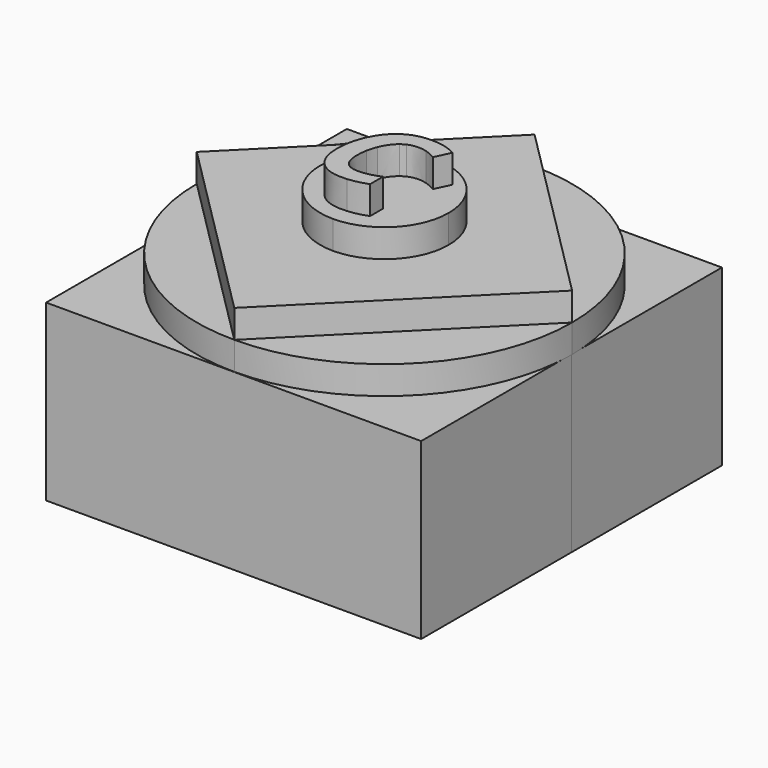
from build123d import *

# Parameters (mm, degrees)
F1_DEPTH = 6.35
F2_DEPTH = 12.7
F3_DEPTH = 19.05
F4_DEPTH = 25.4
F5_DEPTH = 19.05
F6_W     = 84.6370868385
F6_H     = 39.3302179873
F7_DEPTH = 42.418
F8_DEPTH = 42.418


with BuildPart() as f1:
    # F0 (on Top) → F1 (new body)
    with BuildSketch(Plane.XY):
        with BuildLine():
            Line((-42.3516215858, 0), (0, 42.3516215858))
            ThreePointArc((0, 42.3516215858), (-29.9471188176, 29.9471188176), (-42.3516215858, 0))
        make_face()
    extrude(amount=F1_DEPTH)


with BuildPart() as f1b:
    # F0 (on Top) → F1, piece 2 (new body)
    with BuildSketch(Plane.XY):
        with BuildLine():
            Line((0, 42.3516215858), (42.3516215858, 0))
            ThreePointArc((42.3516215858, 0), (29.9471188176, 29.9471188176), (0, 42.3516215858))
        make_face()
    extrude(amount=F1_DEPTH)


with BuildPart() as f1c:
    # F0 (on Top) → F1, piece 3 (new body)
    with BuildSketch(Plane.XY):
        with BuildLine():
            ThreePointArc((0, -42.3516215858), (29.9471188176, -29.9471188176), (42.3516215858, 0))
            Line((42.3516215858, 0), (0, -42.3516215858))
        make_face()
    extrude(amount=F1_DEPTH)


with BuildPart() as f1d:
    # F0 (on Top) → F1, piece 4 (new body)
    with BuildSketch(Plane.XY):
        with BuildLine():
            ThreePointArc((-42.3516215858, 0), (-29.9471188176, -29.9471188176), (0, -42.3516215858))
            Line((0, -42.3516215858), (-42.3516215858, 0))
        make_face()
    extrude(amount=F1_DEPTH)


with BuildPart() as f2:
    # F0 (on Top) → F2 (new body)
    with BuildSketch(Plane.XY):
        with BuildLine():
            Line((0, 14.4900253138), (0, 42.3516215858))
            Line((0, 42.3516215858), (-42.3516215858, 0))
            Line((-42.3516215858, 0), (-14.4900253138, 0))
            ThreePointArc((-14.4900253138, 0), (-10.2459951589, 10.2459951589), (0, 14.4900253138))
        make_face()
        with BuildLine():
            Line((14.4900253138, 0), (42.3516215858, 0))
            Line((42.3516215858, 0), (0, 42.3516215858))
            Line((0, 42.3516215858), (0, 14.4900253138))
            ThreePointArc((0, 14.4900253138), (10.2459951589, 10.2459951589), (14.4900253138, 0))
        make_face()
        with BuildLine():
            Line((0, -42.3516215858), (42.3516215858, 0))
            Line((42.3516215858, 0), (14.4900253138, 0))
            ThreePointArc((14.4900253138, 0), (10.2459951589, -10.2459951589), (0, -14.4900253138))
            Line((0, -14.4900253138), (0, -42.3516215858))
        make_face()
        with BuildLine():
            Line((-42.3516215858, 0), (0, -42.3516215858))
            Line((0, -42.3516215858), (0, -14.4900253138))
            ThreePointArc((0, -14.4900253138), (-10.2459951589, -10.2459951589), (-14.4900253138, 0))
            Line((-14.4900253138, 0), (-42.3516215858, 0))
        make_face()
    extrude(amount=F2_DEPTH)

    # F0 (on Top) → F3 (join)
    with BuildSketch(Plane.XY):
        with BuildLine():
            Line((0, 10.0847837123), (0, 14.4900253138))
            ThreePointArc((0, 14.4900253138), (-10.2459951589, 10.2459951589), (-14.4900253138, 0))
            Line((-14.4900253138, 0), (-8.4076113491, 0))
            add(Edge.make_bspline(
                [(-8.4076113491, 0), (-8.0674152675, 2.1382154446), (-7.1649176971, 4.0515102938)],
                knots=[0.3769495817, 0.3769495817, 0.3769495817, 1, 1, 1], degree=2))
            add(Edge.make_bspline(
                [(-7.1649176971, 4.0515102938), (-5.7164031887, 7.1223610516), (-3.29181275, 8.7179554947)],
                knots=[0, 0, 0, 1, 1, 1], degree=2))
            add(Edge.make_bspline(
                [(-3.29181275, 8.7179554947), (-1.785286578, 9.7093826447), (0, 10.0847837123)],
                knots=[0, 0, 0, 0.6213528471, 0.6213528471, 0.6213528471], degree=2))
        make_face()
        with BuildLine():
            Line((0, 0), (14.4900253138, 0))
            ThreePointArc((14.4900253138, 0), (10.2459951589, 10.2459951589), (0, 14.4900253138))
            Line((0, 14.4900253138), (0, 10.0847837123))
            add(Edge.make_bspline(
                [(0, 10.0847837123), (1.0879384928, 10.3135499378), (2.2793968976, 10.3135499378)],
                knots=[0.6213528471, 0.6213528471, 0.6213528471, 1, 1, 1], degree=2))
            add(Edge.make_bspline(
                [(2.2793968976, 10.3135499378), (4.0220712755, 10.3135499378), (5.3725324941, 9.9993337136)],
                knots=[0, 0, 0, 1, 1, 1], degree=2))
            add(Edge.make_bspline(
                [(5.3725324941, 9.9993337136), (6.7229937127, 9.6851174895), (8.2695615109, 8.8516645262)],
                knots=[0, 0, 0, 1, 1, 1], degree=2))
            Line((8.2695615109, 8.8516645262), (6.6249404229, 5.3663157706))
            add(Edge.make_bspline(
                [(6.6249404229, 5.3663157706), (5.1496841081, 6.1908547985), (4.1892075649, 6.4538158939)],
                knots=[0, 0, 0, 1, 1, 1], degree=2))
            add(Edge.make_bspline(
                [(4.1892075649, 6.4538158939), (3.2287310216, 6.7167769892), (2.2793968976, 6.7167769892)],
                knots=[0, 0, 0, 1, 1, 1], degree=2))
            add(Edge.make_bspline(
                [(2.2793968976, 6.7167769892), (1.0589813809, 6.7167769892), (0, 6.2186936188)],
                knots=[0, 0, 0, 0.6646163427, 0.6646163427, 0.6646163427], degree=2))
            Line((0, 6.2186936188), (0, 0))
        make_face()
        with BuildLine():
            ThreePointArc((0, -14.4900253138), (10.2459951589, -10.2459951589), (14.4900253138, 0))
            Line((14.4900253138, 0), (0, 0))
            Line((0, 0), (0, -7.0234033811))
            add(Edge.make_bspline(
                [(0, -7.0234033811), (1.9334305116, -6.95443899), (4.4231983701, -5.9543822335)],
                knots=[0.0689604772, 0.0689604772, 0.0689604772, 1, 1, 1], degree=2))
            Line((4.4231983701, -5.9543822335), (4.4231983701, -9.5778969884))
            add(Edge.make_bspline(
                [(4.4231983701, -9.5778969884), (2.2228663266, -10.4318100681), (0, -10.606877871)],
                knots=[0, 0, 0, 0.7949817059, 0.7949817059, 0.7949817059], degree=2))
            Line((0, -10.606877871), (0, -14.4900253138))
        make_face()
        with BuildLine():
            ThreePointArc((-14.4900253138, 0), (-10.2459951589, -10.2459951589), (0, -14.4900253138))
            Line((0, -14.4900253138), (0, -10.606877871))
            add(Edge.make_bspline(
                [(0, -10.606877871), (-0.5732562888, -10.6520262084), (-1.1480112776, -10.6520262084)],
                knots=[0.7949817059, 0.7949817059, 0.7949817059, 1, 1, 1], degree=2))
            add(Edge.make_bspline(
                [(-1.1480112776, -10.6520262084), (-4.6823866781, -10.6520262084), (-6.6479094418, -8.5683938002)],
                knots=[0, 0, 0, 1, 1, 1], degree=2))
            add(Edge.make_bspline(
                [(-6.6479094418, -8.5683938002), (-8.6134322055, -6.484761392), (-8.6134322055, -2.6695970252)],
                knots=[0, 0, 0, 1, 1, 1], degree=2))
            add(Edge.make_bspline(
                [(-8.6134322055, -2.6695970252), (-8.6134322055, -1.2936343413), (-8.4076113491, 0)],
                knots=[0, 0, 0, 0.3769495817, 0.3769495817, 0.3769495817], degree=2))
            Line((-8.4076113491, 0), (-14.4900253138, 0))
        make_face()
    extrude(amount=F3_DEPTH)

    # F0 (on Top) → F4 (join)
    with BuildSketch(Plane.XY):
        with BuildLine():
            add(Edge.make_bspline(
                [(0, 10.0847837123), (1.0879384928, 10.3135499378), (2.2793968976, 10.3135499378)],
                knots=[0.6213528471, 0.6213528471, 0.6213528471, 1, 1, 1], degree=2))
            Line((0, 10.0847837123), (0, 6.2186936188))
            add(Edge.make_bspline(
                [(2.2793968976, 6.7167769892), (1.0589813809, 6.7167769892), (0, 6.2186936188)],
                knots=[0, 0, 0, 0.6646163427, 0.6646163427, 0.6646163427], degree=2))
            add(Edge.make_bspline(
                [(4.1892075649, 6.4538158939), (3.2287310216, 6.7167769892), (2.2793968976, 6.7167769892)],
                knots=[0, 0, 0, 1, 1, 1], degree=2))
            add(Edge.make_bspline(
                [(6.6249404229, 5.3663157706), (5.1496841081, 6.1908547985), (4.1892075649, 6.4538158939)],
                knots=[0, 0, 0, 1, 1, 1], degree=2))
            Line((6.6249404229, 5.3663157706), (8.2695615109, 8.8516645262))
            add(Edge.make_bspline(
                [(5.3725324941, 9.9993337136), (6.7229937127, 9.6851174895), (8.2695615109, 8.8516645262)],
                knots=[0, 0, 0, 1, 1, 1], degree=2))
            add(Edge.make_bspline(
                [(2.2793968976, 10.3135499378), (4.0220712755, 10.3135499378), (5.3725324941, 9.9993337136)],
                knots=[0, 0, 0, 1, 1, 1], degree=2))
        make_face()
        with BuildLine():
            add(Edge.make_bspline(
                [(0, -10.606877871), (-0.5732562888, -10.6520262084), (-1.1480112776, -10.6520262084)],
                knots=[0.7949817059, 0.7949817059, 0.7949817059, 1, 1, 1], degree=2))
            Line((0, -10.606877871), (0, -7.0234033811))
            add(Edge.make_bspline(
                [(-0.2833595403, -7.0285114536), (-0.1432058333, -7.0285114536), (0, -7.0234033811)],
                knots=[0, 0, 0, 0.0689604772, 0.0689604772, 0.0689604772], degree=2))
            add(Edge.make_bspline(
                [(-3.3274684918, -5.9008986209), (-2.3736774001, -7.0285114536), (-0.2833595403, -7.0285114536)],
                knots=[0, 0, 0, 1, 1, 1], degree=2))
            add(Edge.make_bspline(
                [(-4.2812595835, -2.4467486393), (-4.2812595835, -4.7732857882), (-3.3274684918, -5.9008986209)],
                knots=[0, 0, 0, 1, 1, 1], degree=2))
            add(Edge.make_bspline(
                [(-4.0571695007, 0), (-4.2812595835, -1.1819176543), (-4.2812595835, -2.4467486393)],
                knots=[0.4986089511, 0.4986089511, 0.4986089511, 1, 1, 1], degree=2))
            Line((-4.0571695007, 0), (-8.4076113491, 0))
            add(Edge.make_bspline(
                [(-8.6134322055, -2.6695970252), (-8.6134322055, -1.2936343413), (-8.4076113491, 0)],
                knots=[0, 0, 0, 0.3769495817, 0.3769495817, 0.3769495817], degree=2))
            add(Edge.make_bspline(
                [(-6.6479094418, -8.5683938002), (-8.6134322055, -6.484761392), (-8.6134322055, -2.6695970252)],
                knots=[0, 0, 0, 1, 1, 1], degree=2))
            add(Edge.make_bspline(
                [(-1.1480112776, -10.6520262084), (-4.6823866781, -10.6520262084), (-6.6479094418, -8.5683938002)],
                knots=[0, 0, 0, 1, 1, 1], degree=2))
        make_face()
        with BuildLine():
            Line((0, 6.2186936188), (0, 10.0847837123))
            add(Edge.make_bspline(
                [(-3.29181275, 8.7179554947), (-1.785286578, 9.7093826447), (0, 10.0847837123)],
                knots=[0, 0, 0, 0.6213528471, 0.6213528471, 0.6213528471], degree=2))
            add(Edge.make_bspline(
                [(-7.1649176971, 4.0515102938), (-5.7164031887, 7.1223610516), (-3.29181275, 8.7179554947)],
                knots=[0, 0, 0, 1, 1, 1], degree=2))
            add(Edge.make_bspline(
                [(-8.4076113491, 0), (-8.0674152675, 2.1382154446), (-7.1649176971, 4.0515102938)],
                knots=[0.3769495817, 0.3769495817, 0.3769495817, 1, 1, 1], degree=2))
            Line((-8.4076113491, 0), (-4.0571695007, 0))
            add(Edge.make_bspline(
                [(-3.3898660398, 2.2687232065), (-3.8343228397, 1.1753594789), (-4.0571695007, 0)],
                knots=[0, 0, 0, 0.4986089511, 0.4986089511, 0.4986089511], degree=2))
            add(Edge.make_bspline(
                [(-1.0276731492, 5.5891641565), (-2.4984724962, 4.4615513238), (-3.3898660398, 2.2687232065)],
                knots=[0, 0, 0, 1, 1, 1], degree=2))
            add(Edge.make_bspline(
                [(0, 6.2186936188), (-0.5343910851, 5.9673470724), (-1.0276731492, 5.5891641565)],
                knots=[0.6646163427, 0.6646163427, 0.6646163427, 1, 1, 1], degree=2))
        make_face()
        with BuildLine():
            Line((0, -7.0234033811), (0, -10.606877871))
            add(Edge.make_bspline(
                [(4.4231983701, -9.5778969884), (2.2228663266, -10.4318100681), (0, -10.606877871)],
                knots=[0, 0, 0, 0.7949817059, 0.7949817059, 0.7949817059], degree=2))
            Line((4.4231983701, -9.5778969884), (4.4231983701, -5.9543822335))
            add(Edge.make_bspline(
                [(0, -7.0234033811), (1.9334305116, -6.95443899), (4.4231983701, -5.9543822335)],
                knots=[0.0689604772, 0.0689604772, 0.0689604772, 1, 1, 1], degree=2))
        make_face()
    extrude(amount=F4_DEPTH)

    # F0 (on Top) → F5 (join)
    with BuildSketch(Plane.XY):
        with BuildLine():
            Line((0, -7.0234033811), (0, 0))
            Line((0, 0), (-4.0571695007, 0))
            add(Edge.make_bspline(
                [(-4.0571695007, 0), (-4.2812595835, -1.1819176543), (-4.2812595835, -2.4467486393)],
                knots=[0.4986089511, 0.4986089511, 0.4986089511, 1, 1, 1], degree=2))
            add(Edge.make_bspline(
                [(-4.2812595835, -2.4467486393), (-4.2812595835, -4.7732857882), (-3.3274684918, -5.9008986209)],
                knots=[0, 0, 0, 1, 1, 1], degree=2))
            add(Edge.make_bspline(
                [(-3.3274684918, -5.9008986209), (-2.3736774001, -7.0285114536), (-0.2833595403, -7.0285114536)],
                knots=[0, 0, 0, 1, 1, 1], degree=2))
            add(Edge.make_bspline(
                [(-0.2833595403, -7.0285114536), (-0.1432058333, -7.0285114536), (0, -7.0234033811)],
                knots=[0, 0, 0, 0.0689604772, 0.0689604772, 0.0689604772], degree=2))
        make_face()
        with BuildLine():
            Line((-4.0571695007, 0), (0, 0))
            Line((0, 0), (0, 6.2186936188))
            add(Edge.make_bspline(
                [(0, 6.2186936188), (-0.5343910851, 5.9673470724), (-1.0276731492, 5.5891641565)],
                knots=[0.6646163427, 0.6646163427, 0.6646163427, 1, 1, 1], degree=2))
            add(Edge.make_bspline(
                [(-1.0276731492, 5.5891641565), (-2.4984724962, 4.4615513238), (-3.3898660398, 2.2687232065)],
                knots=[0, 0, 0, 1, 1, 1], degree=2))
            add(Edge.make_bspline(
                [(-3.3898660398, 2.2687232065), (-3.8343228397, 1.1753594789), (-4.0571695007, 0)],
                knots=[0, 0, 0, 0.4986089511, 0.4986089511, 0.4986089511], degree=2))
        make_face()
    extrude(amount=F5_DEPTH)


with BuildPart() as f7:
    # F6 (on Front) → F7 (new body)
    with BuildSketch(Plane.XZ):
        with Locations((-0.0963974744, -19.6651089936)):
            Rectangle(F6_W, F6_H)
    extrude(amount=-F7_DEPTH)


with BuildPart() as f8:
    # F8 (new): a face of the model
    f8_faces = [f7.part.faces().sort_by_distance(p)[0] for p in [
        (-0.0963974744, 0, -19.6651089936),
    ]]
    extrude(f8_faces, amount=F8_DEPTH)


solid = Compound([f1.part, f1b.part, f1c.part, f1d.part, f2.part, f7.part, f8.part])
